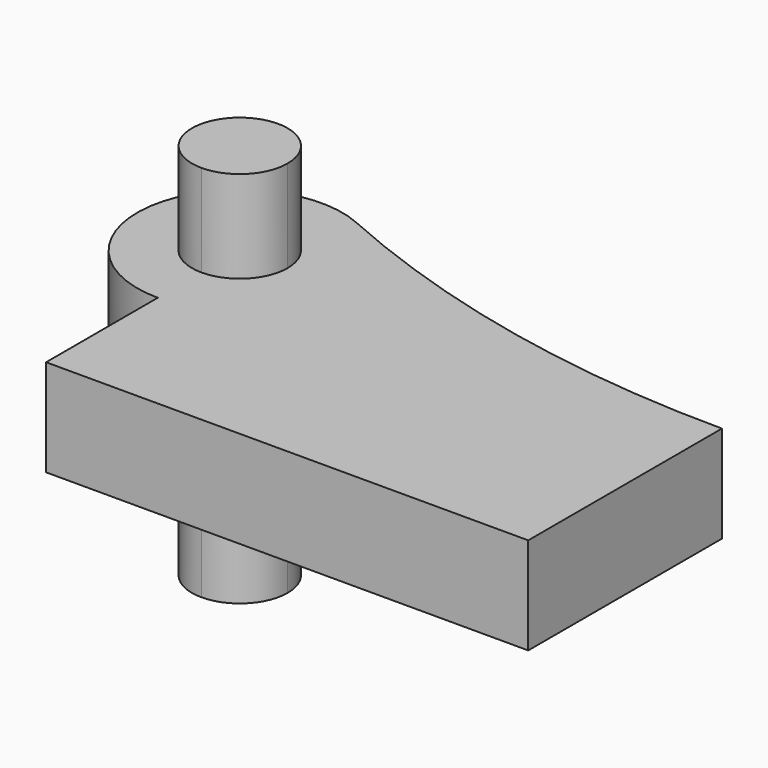
from build123d import *

# Parameters (mm, degrees)
F1_DEPTH = 20
F2_DEPTH = 39


with BuildPart() as f1:
    # F0 (on Top) → F1 (new body)
    with BuildSketch(Plane.XY):
        with BuildLine():
            Line((-49.7410596715, -24.9758898613), (49.7410596715, -24.9758898613))
            Line((49.7410596715, -24.9758898613), (49.7410596715, 24.9758898613))
            Line((49.7410596715, 24.9758898613), (-28.5977688418, 24.9758898613))
            ThreePointArc((-28.5977688418, 24.9758898613), (-34.7904953492, 10.025325539), (-49.7410596715, 3.8325990316))
            Line((-49.7410596715, 3.8325990316), (-49.7410596715, -24.9758898613))
        make_face()
        with BuildLine():
            Line((-28.5977688418, 24.9758898613), (49.7410596715, 24.9758898613))
            ThreePointArc((49.7410596715, 24.9758898613), (3.284475381, 29.8581572014), (-41.1421580215, 44.2916253515))
            ThreePointArc((-41.1421580215, 44.2916253515), (-32.0090571688, 36.4917412999), (-28.5977688418, 24.9758898613))
        make_face()
        with BuildLine():
            ThreePointArc((-41.1421580215, 44.2916253515), (-70.4224155286, 29.3713724318), (-49.7410596715, 3.8325990316))
            Line((-49.7410596715, 3.8325990316), (-49.7410596715, 15.1084726947))
            ThreePointArc((-49.7410596715, 15.1084726947), (-56.7183772629, 31.9532074527), (-39.8736425049, 24.9758898613))
            Line((-39.8736425049, 24.9758898613), (-28.5977688418, 24.9758898613))
            ThreePointArc((-28.5977688418, 24.9758898613), (-32.0090571688, 36.4917412999), (-41.1421580215, 44.2916253515))
        make_face()
        with BuildLine():
            Line((-49.7410596715, 15.1084726947), (-49.7410596715, 3.8325990316))
            ThreePointArc((-49.7410596715, 3.8325990316), (-34.7904953492, 10.025325539), (-28.5977688418, 24.9758898613))
            Line((-28.5977688418, 24.9758898613), (-39.8736425049, 24.9758898613))
            ThreePointArc((-39.8736425049, 24.9758898613), (-42.7637420802, 17.99857227), (-49.7410596715, 15.1084726947))
        make_face()
    extrude(amount=F1_DEPTH)


with BuildPart() as f2:
    # F0 (on Top) → F2 (new body, symmetric)
    with BuildSketch(Plane.XY):
        with BuildLine():
            ThreePointArc((-39.8736425049, 24.9758898613), (-56.7183772629, 31.9532074527), (-49.7410596715, 15.1084726947))
            Line((-49.7410596715, 15.1084726947), (-49.7410596715, 24.9758898613))
            Line((-49.7410596715, 24.9758898613), (-39.8736425049, 24.9758898613))
        make_face()
        with BuildLine():
            Line((-49.7410596715, 24.9758898613), (-49.7410596715, 15.1084726947))
            ThreePointArc((-49.7410596715, 15.1084726947), (-42.7637420802, 17.99857227), (-39.8736425049, 24.9758898613))
            Line((-39.8736425049, 24.9758898613), (-49.7410596715, 24.9758898613))
        make_face()
    extrude(amount=F2_DEPTH, both=True)


solid = Compound([f1.part, f2.part])
